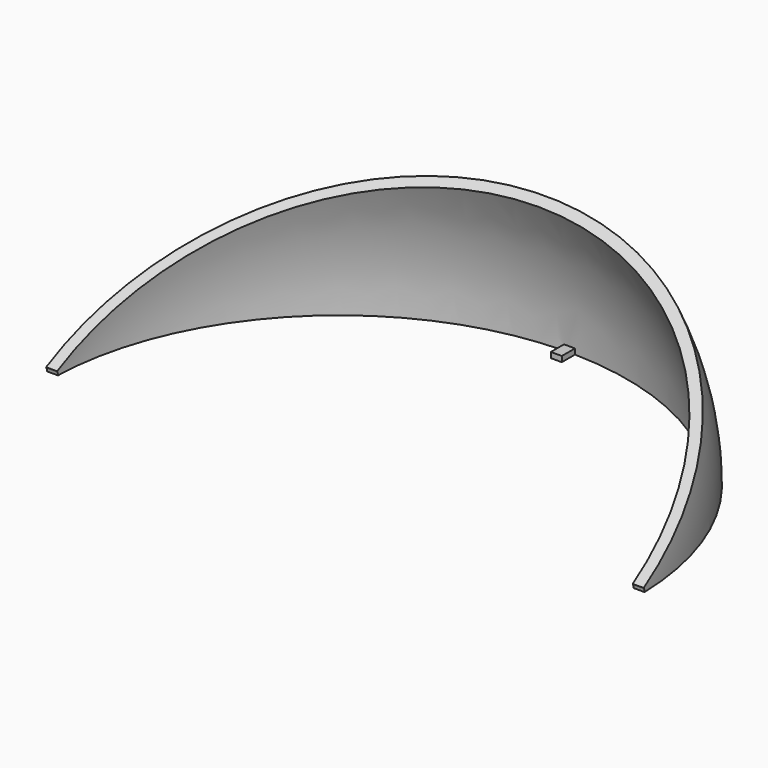
from build123d import *

# Parameters (mm, degrees)
F1_ANGLE      = 30
F2_R          = 3.81
F3_DEPTH      = 138.431
F3_DEPTH_BACK = 138.431
F5_DEPTH      = 2.54


with BuildPart() as f1:
    # F0 (on Top) → F1 (revolve)
    with BuildSketch(Plane.XY):
        with BuildLine():
            Line((-138.43, 0), (-133.35, 0))
            ThreePointArc((-133.35, 0), (0, 133.35), (133.35, 0))
            Line((133.35, 0), (138.43, 0))
            ThreePointArc((138.43, 0), (0, 138.43), (-138.43, 0))
        make_face()
    revolve(axis=Axis((-66.675, 0, 0), (1, 0, 0)), revolution_arc=F1_ANGLE)

    # F2 (on Right) → F3 (cut, two sides)
    with BuildSketch(Plane.YZ) as f3_sk:
        Circle(F2_R)
    extrude(amount=-F3_DEPTH, mode=Mode.SUBTRACT)
    extrude(f3_sk.sketch, amount=F3_DEPTH_BACK, mode=Mode.SUBTRACT)

    # F4 (on Top) → F5 (join)
    with BuildSketch(Plane.XY):
        with BuildLine():
            ThreePointArc((2.54, 133.3258073293), (0, 133.35), (-2.54, 133.3258073293))
            Line((-2.54, 133.3258073293), (-2.54, 125.7058073293))
            Line((-2.54, 125.7058073293), (2.54, 125.7058073293))
            Line((2.54, 125.7058073293), (2.54, 133.3258073293))
        make_face()
    extrude(amount=F5_DEPTH)


solid = f1.part
